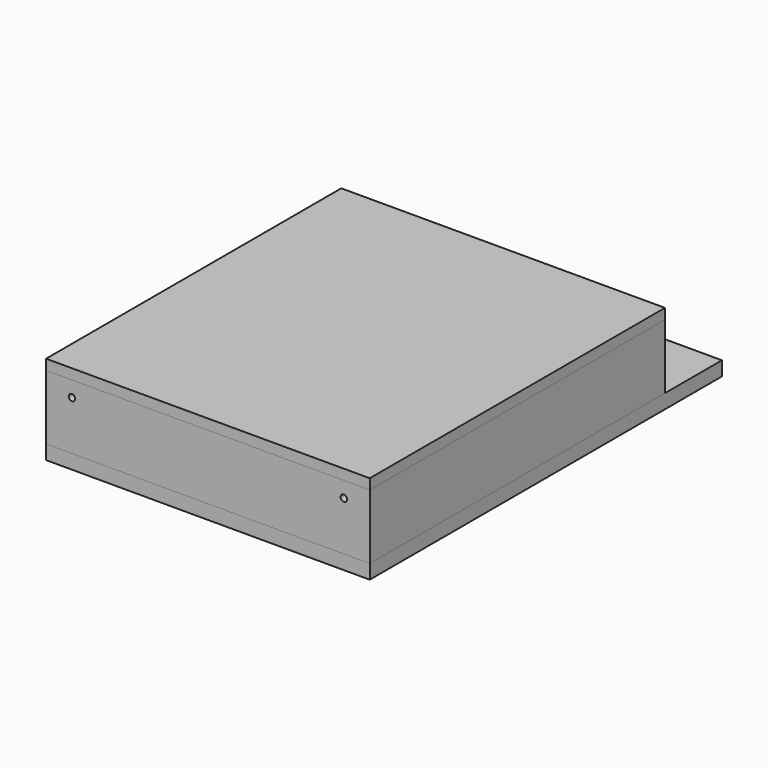
from build123d import *

# Parameters (mm, degrees)
F0_W     = 500
F0_H     = 570
F1_DEPTH = 16
F2_DEPTH = 100
F3_W     = 500
F3_H     = 680
F4_DEPTH = 22
F5_R     = 5
F6_DEPTH = 570


with BuildPart() as f1:
    # F0 (on Top) → F1 (new body)
    with BuildSketch(Plane.XY):
        Rectangle(F0_W, F0_H)
    extrude(amount=F1_DEPTH)


with BuildPart() as f2:
    # F0 (on Top) → F2 (new body)
    with BuildSketch(Plane.XY):
        Rectangle(F0_W, F0_H)
    extrude(amount=-F2_DEPTH)

    # F5 (on face) → F6 (cut, through all)
    with BuildSketch(Plane(origin=(0, 285, 0), x_dir=(-1, 0, 0), z_dir=(0, 1, 0))):
        with Locations((-210, -24)):
            Circle(F5_R)
        with Locations((210, -24)):
            Circle(F5_R)
    extrude(amount=-F6_DEPTH, mode=Mode.SUBTRACT)


with BuildPart() as f4:
    # F3 (on face) → F4 (new body)
    with BuildSketch(Plane(origin=(0, 0, -100), x_dir=(1, 0, 0), z_dir=(0, 0, -1))):
        with Locations((0, -55)):
            Rectangle(F3_W, F3_H)
    extrude(amount=F4_DEPTH)


solid = Compound([f1.part, f2.part, f4.part])
